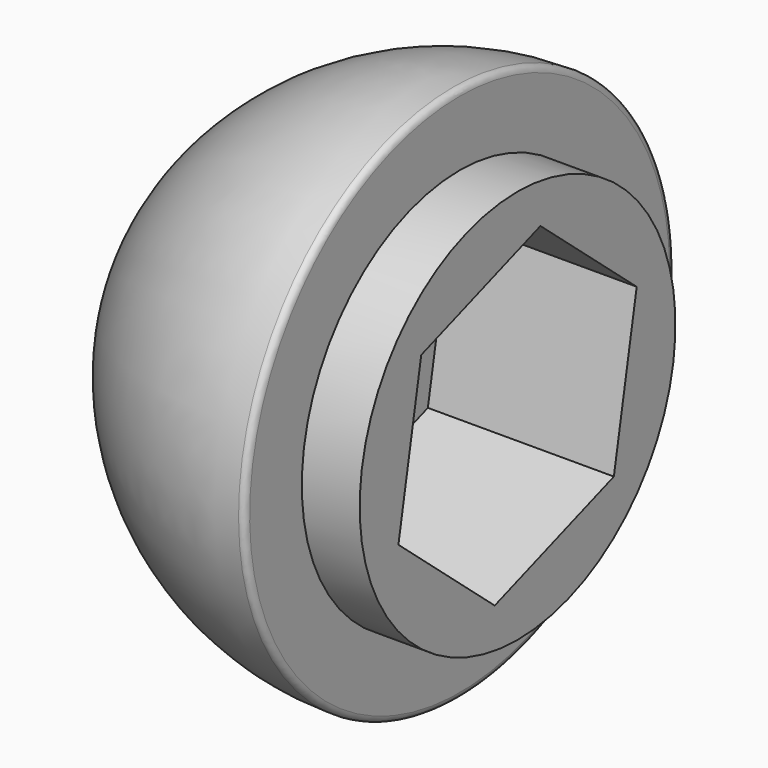
from build123d import *

# Parameters (mm, degrees)
F2_R     = 3.65
F3_DEPTH = 9
F4_R     = 0.3


with BuildPart() as f1:
    # F0 (on Front) → F1 (revolve)
    with BuildSketch(Plane.XZ):
        with BuildLine():
            ThreePointArc((-42.4148629687, 63.6481613441), (-50.7192303521, 61.2915541367), (-56.2311671597, 54.6481613441))
            Line((-56.2311671597, 54.6481613441), (-49.8611671597, 54.6481613441))
            Line((-49.8611671597, 54.6481613441), (-49.8611671597, 52.6481613441))
            Line((-49.8611671597, 52.6481613441), (-48.6148629687, 52.6481613441))
            Line((-48.6148629687, 52.6481613441), (-48.6148629687, 54.2981613441))
            Line((-48.6148629687, 54.2981613441), (-39.6148629687, 54.2981613441))
            Line((-39.6148629687, 54.2981613441), (-39.6148629687, 60.1981613441))
            Line((-39.6148629687, 60.1981613441), (-42.4148629687, 60.1981613441))
            Line((-42.4148629687, 60.1981613441), (-42.4148629687, 63.6481613441))
        make_face()
    revolve(axis=Axis((-46.1157262325, 0, 50.6481613441), (1, 0, 0)))

    # F2 (on face) → F3 (cut)
    with BuildSketch(Plane.YZ.offset(-39.6148629687)):
        Polygon((5.8253410005, 45.6895423602), (7.206960508, 53.2137451444), (1.3816195075, 58.1723641283), (-5.8253410005, 55.606780328), (-7.206960508, 48.0825775439), (-1.3816195075, 43.12395856), align=None)
        with Locations((0, 50.6481613441)):
            Circle(F2_R, mode=Mode.SUBTRACT)
    extrude(amount=-F3_DEPTH, mode=Mode.SUBTRACT)

    # F4
    f4_edges = [f1.edges().sort_by_distance(p)[0] for p in [
        (-56.231167, 0, 46.648161),
        (-42.414863, 0, 37.648161),
        (-50.71923, 0, 61.291554),
    ]]
    fillet(f4_edges, radius=F4_R)


solid = f1.part
